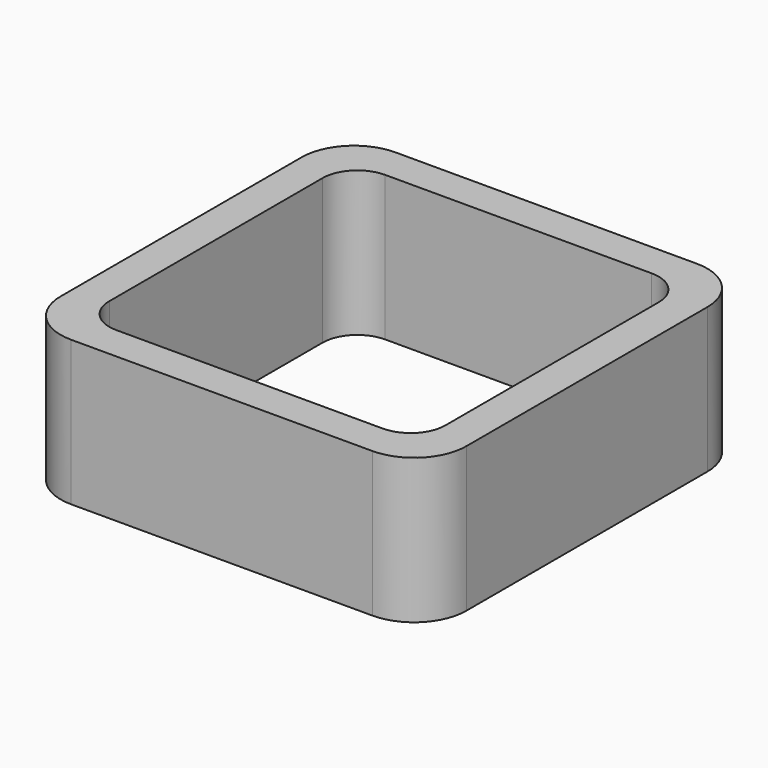
from build123d import *

# Parameters (mm, degrees)
EXTRUDE_DEPTH = 50


with BuildPart() as part:
    # Sketch → Extrude (new body)
    with BuildSketch(Plane.XY):
        with BuildLine():
            Line((-52, 70), (52, 70))
            ThreePointArc((70, 52), (64.727922, 64.727922), (52, 70))
            Line((70, 52), (70, -52))
            ThreePointArc((52, -70), (64.727922, -64.727922), (70, -52))
            Line((52, -70), (-52, -70))
            ThreePointArc((-70, -52), (-64.727922, -64.727922), (-52, -70))
            Line((-70, -52), (-70, 52))
            ThreePointArc((-52, 70), (-64.727922, 64.727922), (-70, 52))
        make_face()
        with BuildLine():
            Line((-46, 58), (46, 58))
            ThreePointArc((58, 46), (54.485281, 54.485281), (46, 58))
            Line((58, 46), (58, -46))
            ThreePointArc((46, -58), (54.485281, -54.485281), (58, -46))
            Line((46, -58), (-46, -58))
            ThreePointArc((-58, -46), (-54.485281, -54.485281), (-46, -58))
            Line((-58, -46), (-58, 46))
            ThreePointArc((-46, 58), (-54.485281, 54.485281), (-58, 46))
        make_face(mode=Mode.SUBTRACT)
    extrude(amount=EXTRUDE_DEPTH)


solid = part.part
